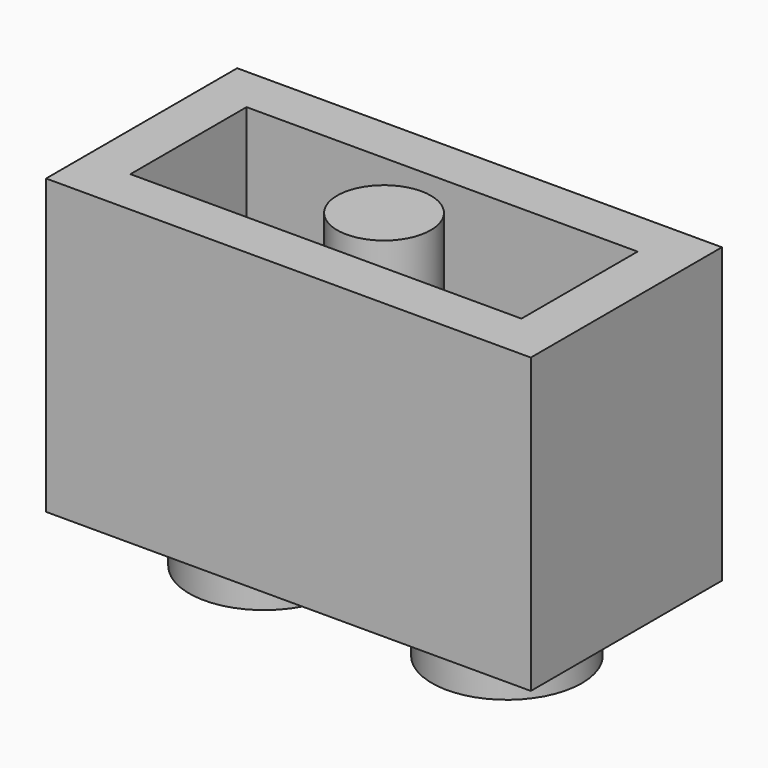
from build123d import *

# Parameters (mm, degrees)
F0_W     = 15.7734
F0_H     = 7.7724
F1_DEPTH = 9.5504
F3_W     = 12.7254
F3_H     = 4.7244
F3_R     = 1.524
F4_DEPTH = 8.0772
F5_R     = 2.4384
F6_DEPTH = 1.8288


with BuildPart() as f1:
    # F0 (on Top) → F1 (new body)
    with BuildSketch(Plane.XY):
        Rectangle(F0_W, F0_H)
    extrude(amount=F1_DEPTH)

    # F3 (on face) → F4 (cut)
    with BuildSketch(Plane.XY.offset(9.5504)):
        Rectangle(F3_W, F3_H)
        Circle(F3_R, mode=Mode.SUBTRACT)
    extrude(amount=-F4_DEPTH, mode=Mode.SUBTRACT)

    # F5 (on face) → F6 (join)
    with BuildSketch(Plane(origin=(0, 0, 0), x_dir=(1, 0, 0), z_dir=(0, 0, -1))):
        with Locations((-3.8989, 0)):
            Circle(F5_R)
        with Locations((4.0005, 0)):
            Circle(F5_R)
    extrude(amount=F6_DEPTH)


solid = f1.part
